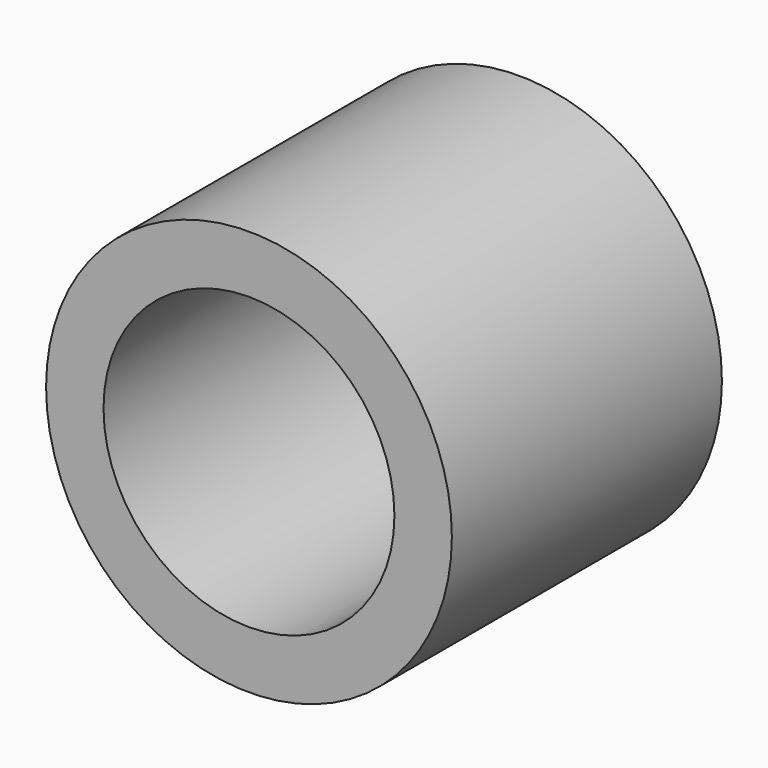
from build123d import *

# Parameters (mm, degrees)
F1_R     = 76.328728
F1_R_2   = 54.721904
F2_DEPTH = 127


with BuildPart() as f2:
    # F1 (on face) → F2 (new body)
    with BuildSketch(Plane.XZ):
        Circle(F1_R)
        Circle(F1_R_2, mode=Mode.SUBTRACT)
    extrude(amount=F2_DEPTH)


solid = f2.part
